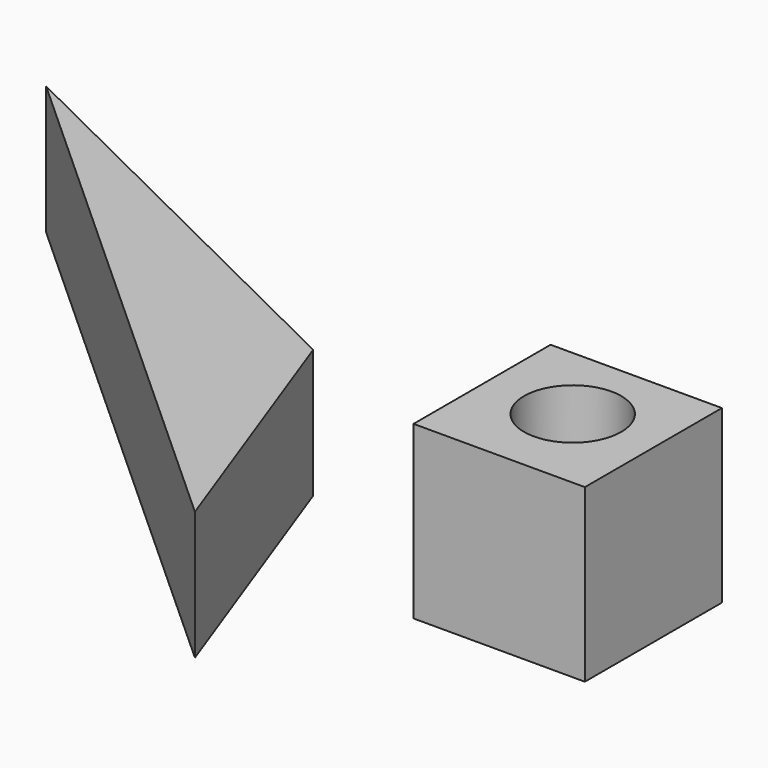
from build123d import *

# Parameters (mm, degrees)
F1_DEPTH = 15
F2_W     = 20
F2_H     = 20
F3_DEPTH = 20
F4_DEPTH = 20
F5_R     = 5.674372
F6_DEPTH = 20


with BuildPart() as f1:
    # F0 (on Top) → F1 (new body)
    with BuildSketch(Plane.XY):
        Polygon((-63.06868, 57.116646), (0, 0), (-11.560683, 31.706035), align=None)
    extrude(amount=F1_DEPTH)


with BuildPart() as f3:
    # F2 (on Top) → F3 (new body)
    with BuildSketch(Plane.XY):
        with Locations((20.717662, 28.501092)):
            Rectangle(F2_W, F2_H)
    extrude(amount=F3_DEPTH)

    # F2 (on Top) → F4 (join)
    with BuildSketch(Plane.XY):
        with Locations((20.717662, 28.501092)):
            Rectangle(F2_W, F2_H)
    extrude(amount=F4_DEPTH)

    # F5 (on Top) → F6 (cut)
    with BuildSketch(Plane.XY):
        with Locations((20.827467, 29.084507)):
            Circle(F5_R)
    extrude(amount=F6_DEPTH, mode=Mode.SUBTRACT)


solid = Compound([f1.part, f3.part])
